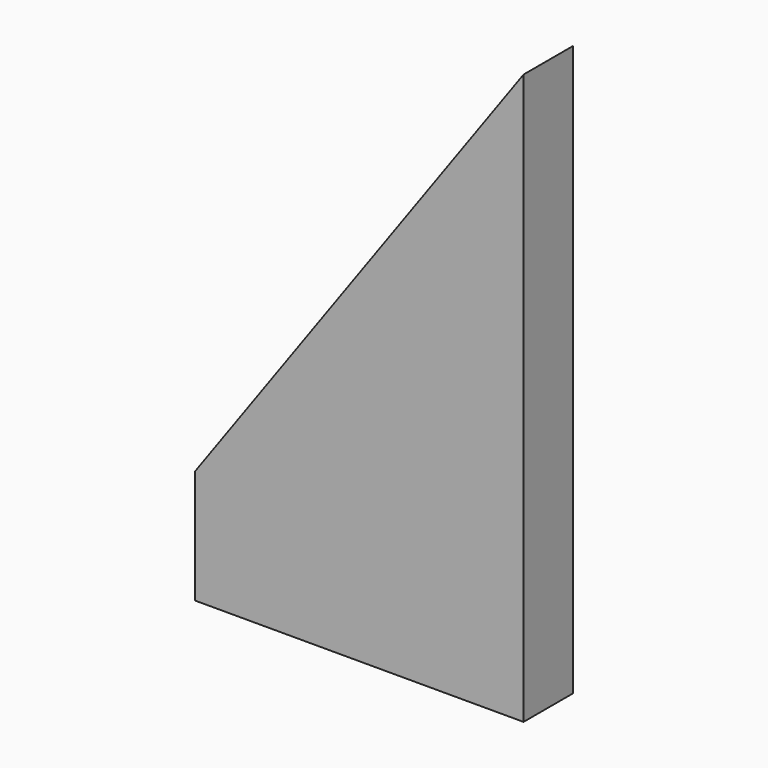
from build123d import *

# Parameters (mm, degrees)
PAD_DEPTH = 19.05


with BuildPart() as part:
    # Sketch → Pad (new body)
    with BuildSketch(Plane.XZ):
        Polygon((127, 176.349209), (127, 0), (25.4, 0), (25.4, 35.269842), align=None)
    extrude(amount=PAD_DEPTH)


solid = part.part
